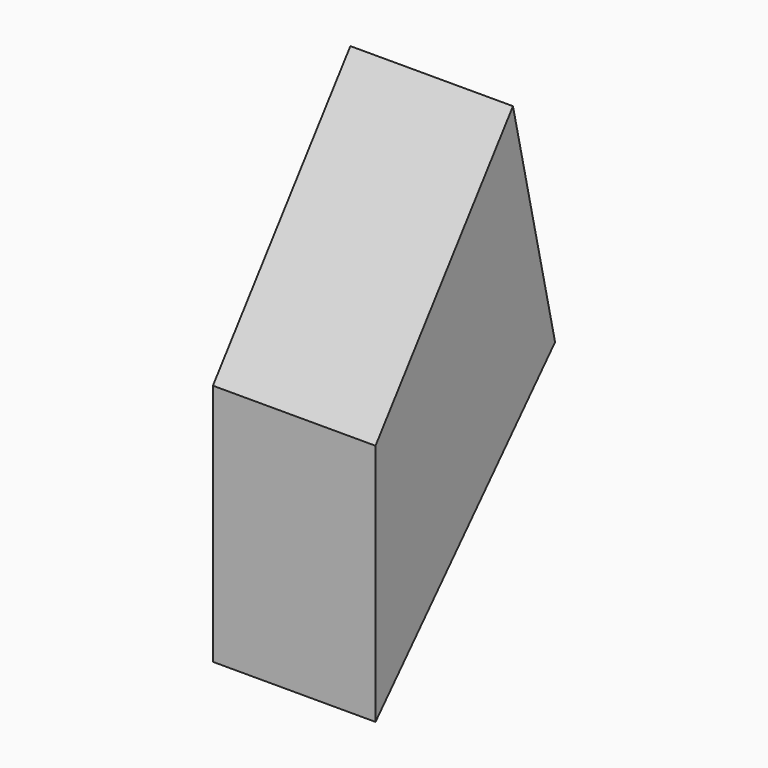
from build123d import *

# Parameters (mm, degrees)
F1_DEPTH = 38.943585


with BuildPart() as f1:
    # F0 (on Right) → F1 (new body)
    with BuildSketch(Plane.YZ):
        Polygon((0, 0), (0, -58.233328), (53.758308, 0), align=None)
        Polygon((0, 0), (53.758308, 0), (41.147273, 54.883741), align=None)
    extrude(amount=F1_DEPTH)


solid = f1.part
